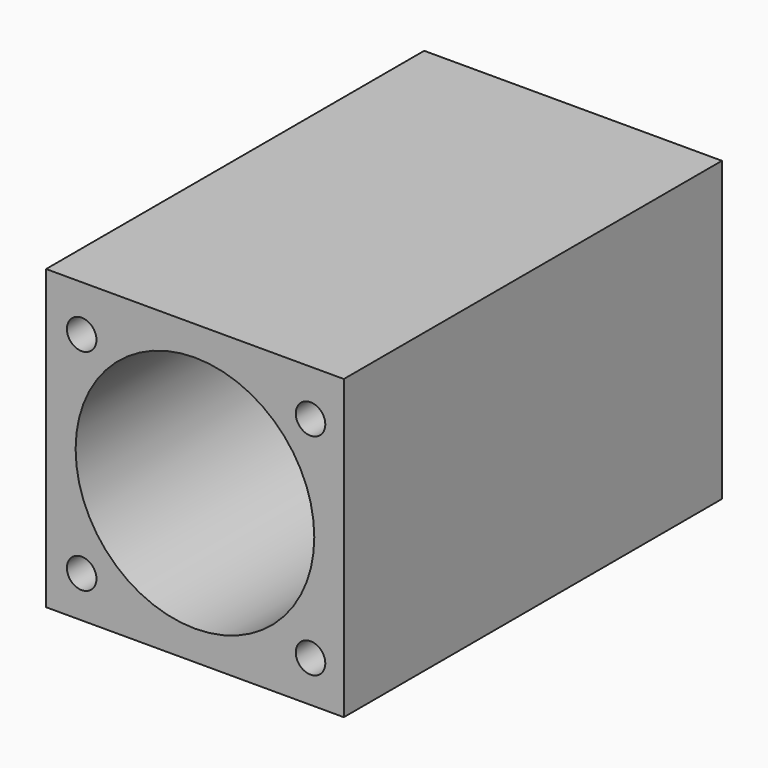
from build123d import *

# Parameters (mm, degrees)
F0_W     = 32.004
F0_H     = 32.004
F0_R     = 12.827
F1_DEPTH = 50.8
F2_R     = 1.5875
F3_DEPTH = 9.525


with BuildPart() as f1:
    # F0 (on Front) → F1 (new body)
    with BuildSketch(Plane.XZ):
        Rectangle(F0_W, F0_H)
        Circle(F0_R, mode=Mode.SUBTRACT)
    extrude(amount=F1_DEPTH)

    # F2 (on face) → F3 (cut)
    with BuildSketch(Plane.XZ.offset(50.8)):
        with Locations((-12.175433, 11.057283)):
            Circle(F2_R)
        with Locations((12.423911, 11.057283)):
            Circle(F2_R)
        with Locations((12.423911, -11.554239)):
            Circle(F2_R)
        with Locations((-12.175433, -11.554239)):
            Circle(F2_R)
    extrude(amount=-F3_DEPTH, mode=Mode.SUBTRACT)


solid = f1.part
